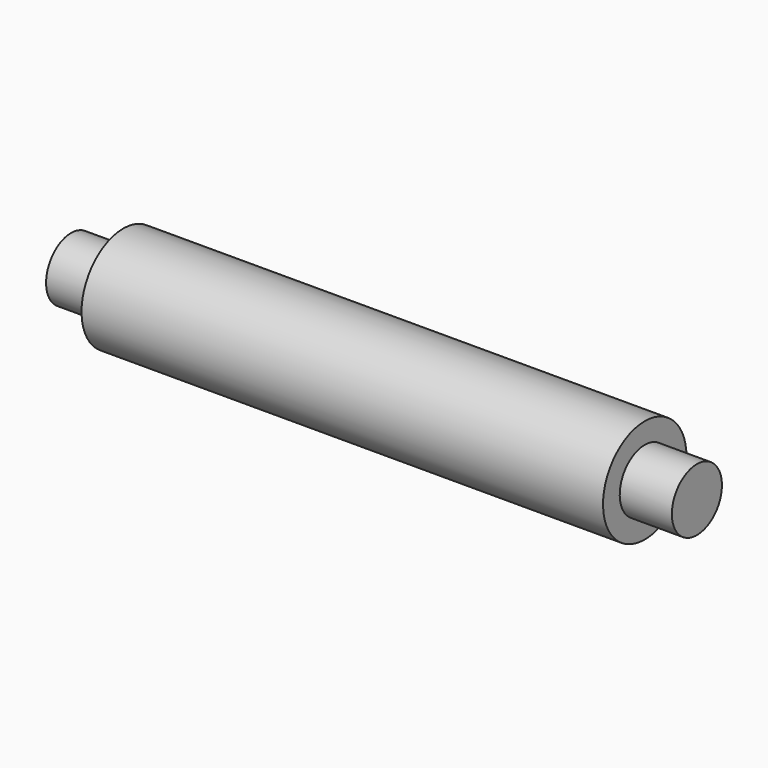
from build123d import *

# Parameters (mm, degrees)
F0_W   = 10
F0_H   = 6
F0_W_2 = 100
F0_H_2 = 4


with BuildPart() as f1:
    # F0 (on Front) → F1 (revolve)
    with BuildSketch(Plane.XZ):
        with Locations((-78.853197, 3)):
            Rectangle(F0_W, F0_H)
        with Locations((-23.853197, 3)):
            Rectangle(F0_W_2, F0_H)
        with Locations((-23.853197, 8)):
            Rectangle(F0_W_2, F0_H_2)
        with Locations((31.146803, 3)):
            Rectangle(F0_W, F0_H)
    revolve(axis=Axis((-20.366968, 0, 0), (-1, 0, 0)))


solid = f1.part
